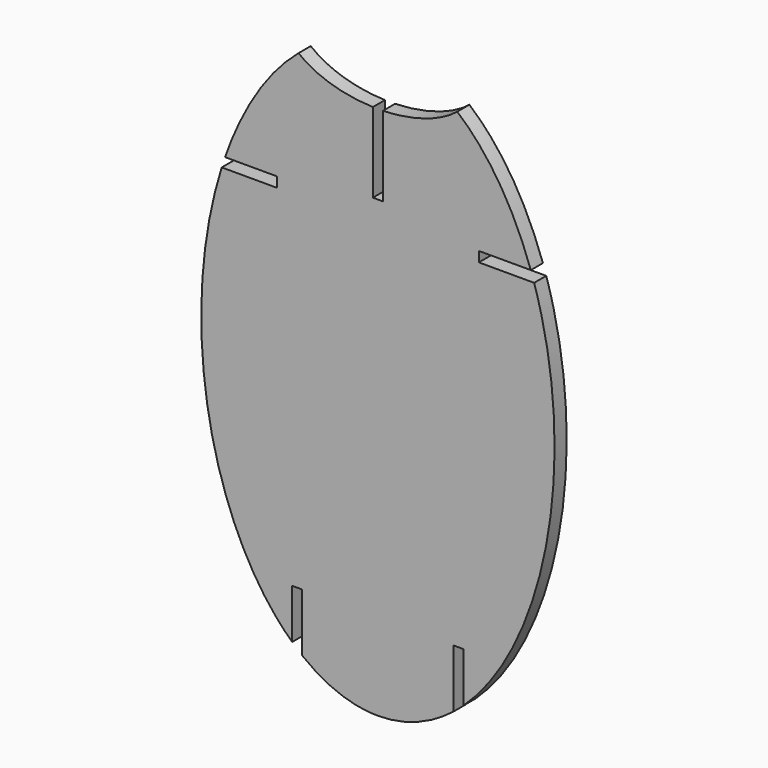
from build123d import *

# Parameters (mm, degrees)
F1_DEPTH = 3
F2_W     = 29.469342
F2_H     = 2
F3_DEPTH = 25
F5_DEPTH = 10
F7_DEPTH = 25
F8_W     = 1
F8_H     = 25
F9_DEPTH = 25


with BuildPart() as f1:
    # F0 (on Front) → F1 (new body)
    with BuildSketch(Plane.XZ):
        with BuildLine():
            add(Edge.make_bspline(
                [(0, -58.346872), (60.621778, -58.346872), (30.310889, 29.173436), (0, 116.693744), (-30.310889, 29.173436), (-60.621778, -58.346872), (0, -58.346872)],
                knots=[0, 0, 0, 2.094395, 2.094395, 4.18879, 4.18879, 6.283185, 6.283185, 6.283185], degree=2, weights=[1, 0.5, 1, 0.5, 1, 0.5, 1]))
        make_face()
    extrude(amount=F1_DEPTH)

    # F2 (on Front) → F3 (cut)
    with BuildSketch(Plane.XZ):
        with Locations((-34.734671, 28.240567)):
            Rectangle(F2_W, F2_H)
        with Locations((34.734671, 28.240567)):
            Rectangle(F2_W, F2_H)
    extrude(amount=F3_DEPTH, mode=Mode.SUBTRACT)

    # F4 (on Front) → F5 (cut)
    with BuildSketch(Plane.XZ):
        Polygon((-15, -41.198471), (-17, -41.198471), (-17, -51.198471), (-17, -64.541914), (-15, -64.62919), (-15, -53.12467), align=None)
        Polygon((17, -51.198471), (17, -41.198471), (15, -41.198471), (15, -53.12467), (15, -64.62919), (17, -64.62919), align=None)
    extrude(amount=F5_DEPTH, mode=Mode.SUBTRACT)

    # F6 (on Front) → F7 (cut)
    with BuildSketch(Plane.XZ):
        with BuildLine():
            add(Edge.make_bspline(
                [(19.068396, 58.195755), (19.068396, 76.728505), (-9.534198, 67.46213), (-38.136791, 58.195755), (-9.534198, 48.92938), (19.068396, 39.663005), (19.068396, 58.195755)],
                knots=[0, 0, 0, 2.094395, 2.094395, 4.18879, 4.18879, 6.283185, 6.283185, 6.283185], degree=2, weights=[1, 0.5, 1, 0.5, 1, 0.5, 1]))
        make_face()
    extrude(amount=F7_DEPTH, mode=Mode.SUBTRACT)

    # F8 (on Front) → F9 (cut)
    with BuildSketch(Plane.XZ):
        with Locations((-0.5, 44.198115)):
            Rectangle(F8_W, F8_H)
        with Locations((0.5, 44.198115)):
            Rectangle(F8_W, F8_H)
    extrude(amount=F9_DEPTH, mode=Mode.SUBTRACT)


solid = f1.part
